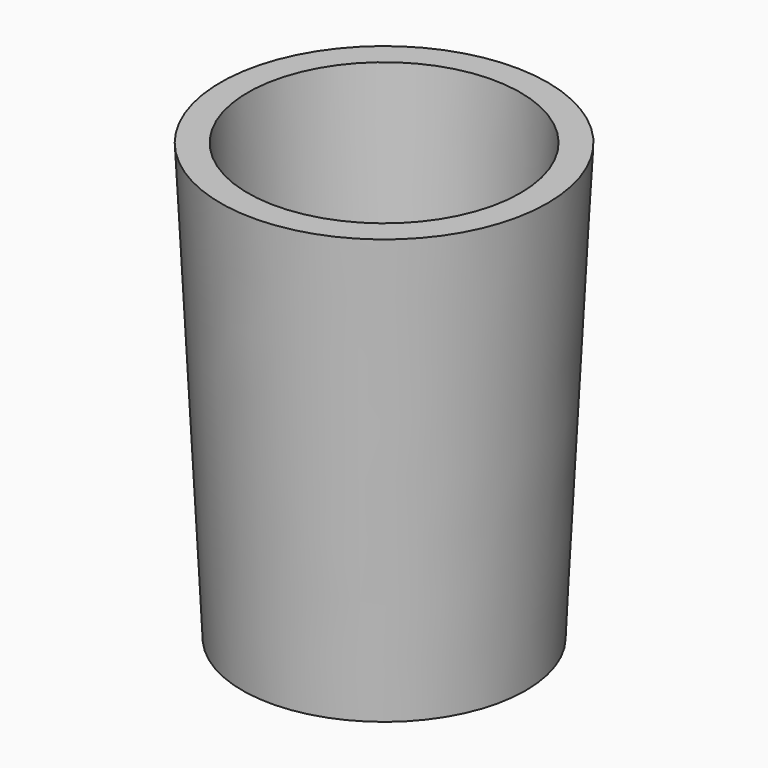
from build123d import *


with BuildPart() as cone001:
    # Cone001 → Cone001 (revolve)
    with BuildSketch(Plane.XZ):
        Polygon((0, 0), (8.4, 0), (10, 32), (0, 32), align=None)
    revolve(axis=Axis((0, 0, 0), (0, 0, 1)))


with BuildPart() as obj1:
    # Cone002 → Cone002 (revolve)
    with BuildSketch(Plane(origin=(0, 0, 2), x_dir=(1, 0, 0), z_dir=(0, -1, 0))):
        Polygon((0, 0), (10.5, 0), (11.9, 28), (0, 28), align=None)
    revolve(axis=Axis((0, 0, 2), (0, 0, 1)))


with BuildPart() as is383_joint:
    # Cone → Cone (revolve)
    with BuildSketch(Plane.XZ):
        Polygon((0, 0), (10.4, 0), (12, 32), (0, 32), align=None)
    revolve(axis=Axis((0, 0, 0), (0, 0, 1)))

    # Fusion: union obj1
    add(obj1.part)

    # Cut: cut Cone001
    add(cone001.part, mode=Mode.SUBTRACT)


solid = is383_joint.part
